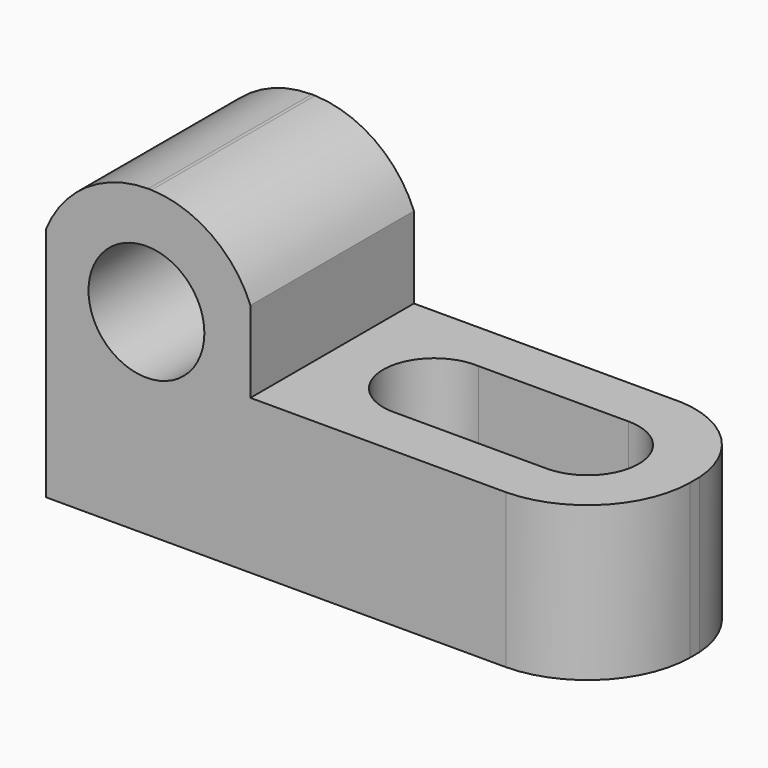
from build123d import *

# Parameters (mm, degrees)
F1_DEPTH  = 25.4
F2_R      = 6.35
F3_DEPTH  = 19.1426622189
F5_DEPTH  = 19.1426622189
F6_R      = 7.1994737013
F7_DEPTH  = 25.401
F9_DEPTH  = 25.4
F11_DEPTH = 19.1426622189


with BuildPart() as f1:
    # F0 (on Front) → F1 (new body)
    with BuildSketch(Plane.XZ):
        Polygon((-45.1743540521, 49.7133625326), (-70.570941653, 50.1297016121), (-70.570941653, 12.0297016121), (-0.7243540521, 12.0297016121), (-0.7243540521, 31.171363831), (-45.1743540521, 31.171363831), align=None)
    extrude(amount=F1_DEPTH)

    # F2 (on face) → F3 (cut, through all)
    with BuildSketch(Plane.XY.offset(31.171363831)):
        with Locations((-32.4743540521, -12.7)):
            Circle(F2_R)
        with Locations((-13.4243540521, -12.7)):
            Circle(F2_R)
    extrude(amount=-F3_DEPTH, mode=Mode.SUBTRACT)

    # F4 (on face) → F5 (cut, through all)
    with BuildSketch(Plane.XY.offset(31.171363831)):
        with BuildLine():
            Line((-13.4283372002, -6.3500012492), (-32.0889518764, -6.3617064471))
            ThreePointArc((-32.0889518764, -6.3617064471), (-27.8499728061, -8.3482649332), (-26.1243540521, -12.7))
            ThreePointArc((-26.1243540521, -12.7), (-27.9434136021, -17.1489412941), (-32.3583945682, -19.0489411242))
            Line((-32.3583945682, -19.0489411242), (-13.4247091757, -19.0499999901))
            ThreePointArc((-13.4247091757, -19.0499999901), (-19.774353793, -12.7018140123), (-13.4283372002, -6.3500012492))
        make_face()
    extrude(amount=-F5_DEPTH, mode=Mode.SUBTRACT)

    # F6 (on face) → F7 (cut, through all)
    with BuildSketch(Plane.XZ.offset(25.4)):
        with Locations((-58.0986022331, 36.3739425377)):
            Circle(F6_R)
    extrude(amount=-F7_DEPTH, mode=Mode.SUBTRACT)

    # F8 (on face) → F9 (cut)
    with BuildSketch(Plane.XZ.offset(25.4)):
        with BuildLine():
            ThreePointArc((-57.4608641224, 49.9147814938), (-50.0311914148, 47.4398241259), (-45.1743540521, 41.2968133537))
            Line((-45.1743540521, 41.2968133537), (-45.1743540521, 49.7133625326))
            Line((-45.1743540521, 49.7133625326), (-57.4608641224, 49.9147814938))
        make_face()
        with BuildLine():
            ThreePointArc((-70.570941653, 41.3884755726), (-65.5252942865, 47.5947800385), (-57.8726478526, 49.9215320724))
            Line((-57.8726478526, 49.9215320724), (-70.570941653, 50.1297016121))
            Line((-70.570941653, 50.1297016121), (-70.570941653, 41.3884755726))
        make_face()
    extrude(amount=-F9_DEPTH, mode=Mode.SUBTRACT)

    # F10 (on face) → F11 (cut, through all)
    with BuildSketch(Plane.XY.offset(31.171363831)):
        with BuildLine():
            ThreePointArc((-11.8059636609, 0), (-4.1674496382, -3.5171465582), (-0.7243540521, -11.1893241612))
            Line((-0.7243540521, -11.1893241612), (-0.7243540521, 0))
            Line((-0.7243540521, 0), (-11.8059636609, 0))
        make_face()
        with BuildLine():
            Line((-0.7243540521, -25.4), (-0.7243540521, -12.7))
            ThreePointArc((-0.7243540521, -12.7), (-4.4886377498, -21.6359661722), (-13.4247091757, -25.4))
            Line((-13.4247091757, -25.4), (-0.7243540521, -25.4))
        make_face()
    extrude(amount=-F11_DEPTH, mode=Mode.SUBTRACT)


solid = f1.part
